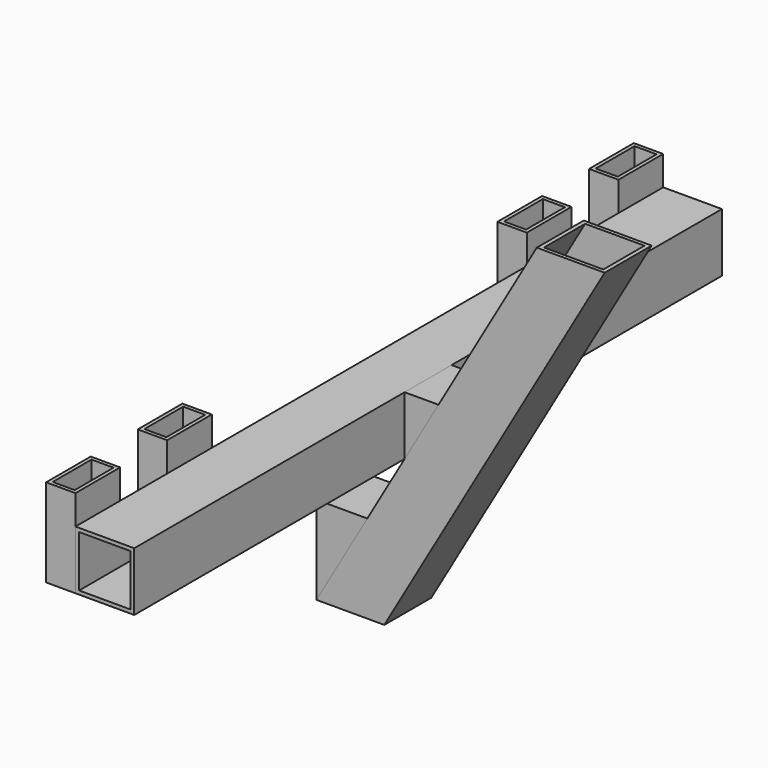
from build123d import *

# Parameters (mm, degrees)
F0_W           = 20
F0_H           = 38
F1_DEPTH       = 60
F2_T           = -2.5
F2_2_T         = -2.5
F2_3_T         = -2.5
F2_4_T         = -2.5
F3_W           = 40
F3_H           = 40
F4_DEPTH       = 250
F4_DEPTH_BACK  = 250
F5_T           = -2.5
F7_DEPTH       = 20
F7_DEPTH_BACK  = 20
F8_T           = -2.5
F10_DEPTH      = 20
F10_DEPTH_BACK = 20
F11_T          = -2.5
F13_DEPTH      = 20
F13_DEPTH_BACK = 20
F14_T          = -2.5


with BuildPart() as f1:
    # F0 (on Top) → F1 (new body)
    with BuildSketch(Plane.XY):
        with Locations((10, 231)):
            Rectangle(F0_W, F0_H)
    extrude(amount=F1_DEPTH)

    # F2#4
    f2_4_openings = [f1.faces().sort_by_distance(p)[0] for p in [
        (10, 231, 60),
        (10, 231, 0),
    ]]
    offset(amount=F2_4_T, openings=f2_4_openings)


with BuildPart() as f1b:
    # F0 (on Top) → F1, piece 2 (new body)
    with BuildSketch(Plane.XY):
        with Locations((10, 153)):
            Rectangle(F0_W, F0_H)
    extrude(amount=F1_DEPTH)

    # F2#3
    f2_3_openings = [f1b.faces().sort_by_distance(p)[0] for p in [
        (10, 153, 60),
        (10, 153, 0),
    ]]
    offset(amount=F2_3_T, openings=f2_3_openings)


with BuildPart() as f1c:
    # F0 (on Top) → F1, piece 3 (new body)
    with BuildSketch(Plane.XY):
        with Locations((10, -231)):
            Rectangle(F0_W, F0_H)
    extrude(amount=F1_DEPTH)

    # F2
    f2_openings = [f1c.faces().sort_by_distance(p)[0] for p in [
        (10, -231, 60),
        (10, -231, 0),
    ]]
    offset(amount=F2_T, openings=f2_openings)


with BuildPart() as f1d:
    # F0 (on Top) → F1, piece 4 (new body)
    with BuildSketch(Plane.XY):
        with Locations((10, -153)):
            Rectangle(F0_W, F0_H)
    extrude(amount=F1_DEPTH)

    # F2#2
    f2_2_openings = [f1d.faces().sort_by_distance(p)[0] for p in [
        (10, -153, 60),
        (10, -153, 0),
    ]]
    offset(amount=F2_2_T, openings=f2_2_openings)


with BuildPart() as f4:
    # F3 (on Front) → F4 (new body, two sides)
    with BuildSketch(Plane.XZ) as f4_sk:
        with Locations((40, 20)):
            Rectangle(F3_W, F3_H)
    extrude(amount=F4_DEPTH)
    extrude(f4_sk.sketch, amount=-F4_DEPTH_BACK)

    # F5
    f5_openings = [f4.faces().sort_by_distance(p)[0] for p in [
        (40, -250, 20),
        (40, 250, 20),
    ]]
    offset(amount=F5_T, openings=f5_openings)


with BuildPart() as f7:
    # F6 (on Front) → F7 (new body, two sides)
    with BuildSketch(Plane.XZ) as f7_sk:
        Polygon((150, 155.8845726812), (0, -103.9230484541), (46.1880215352, -103.9230484541), (196.1880215352, 155.8845726812), align=None)
    extrude(amount=F7_DEPTH)
    extrude(f7_sk.sketch, amount=-F7_DEPTH_BACK)

    # F8
    f8_openings = [f7.faces().sort_by_distance(p)[0] for p in [
        (23.094011, 0, -103.923048),
        (173.094011, 0, 155.884573),
    ]]
    offset(amount=F8_T, openings=f8_openings)


with BuildPart() as f10:
    # F9 (on Front) → F10 (new body, two sides)
    with BuildSketch(Plane.XZ) as f10_sk:
        Polygon((34.6410161514, -43.9230484541), (0, -43.9230484541), (0, -103.9230484541), align=None)
    extrude(amount=F10_DEPTH)
    extrude(f10_sk.sketch, amount=-F10_DEPTH_BACK)

    # F11
    f11_openings = [f10.faces().sort_by_distance(p)[0] for p in [
        (17.320508, 0, -73.923048),
    ]]
    offset(amount=F11_T, openings=f11_openings)


with BuildPart() as f13:
    # F12 (on Front) → F13 (new body, two sides)
    with BuildSketch(Plane.XZ) as f13_sk:
        Polygon((83.0940107676, 40), (60, 40), (60, 0), align=None)
    extrude(amount=F13_DEPTH)
    extrude(f13_sk.sketch, amount=-F13_DEPTH_BACK)

    # F14
    f14_openings = [f13.faces().sort_by_distance(p)[0] for p in [
        (71.547005, 0, 20),
        (60, 0, 20),
    ]]
    offset(amount=F14_T, openings=f14_openings)


solid = Compound([f1.part, f1b.part, f1c.part, f1d.part, f4.part, f7.part, f10.part, f13.part])
